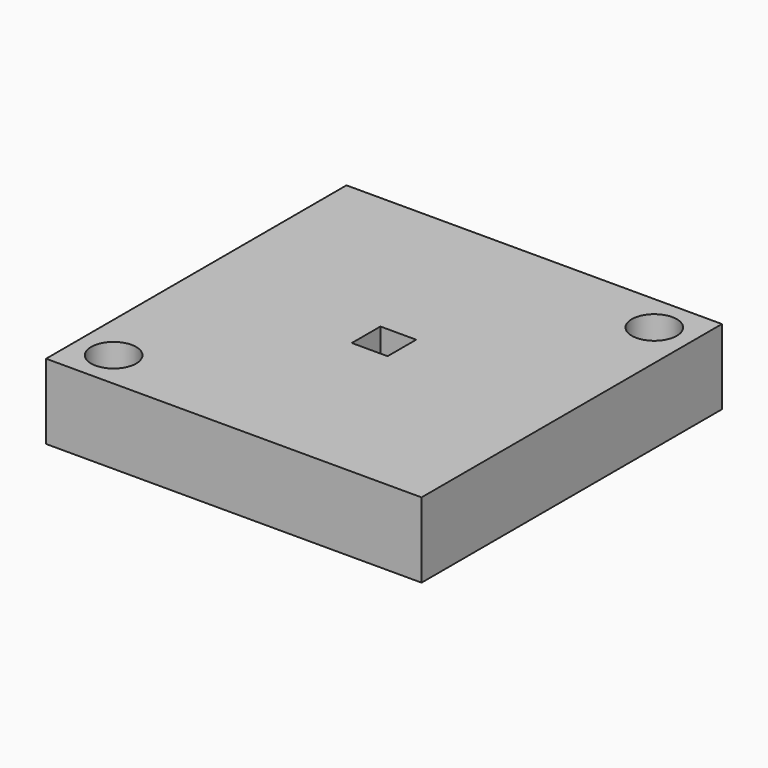
from build123d import *

# Parameters (mm, degrees)
F0_W     = 50
F0_H     = 50
F0_R     = 3
F0_W_2   = 4.7625
F0_H_2   = 4.7625
F1_DEPTH = 10


with BuildPart() as f1:
    # F0 (on Top) → F1 (new body)
    with BuildSketch(Plane.XY):
        with Locations((25, -25)):
            Rectangle(F0_W, F0_H)
        with Locations((5, -45)):
            Circle(F0_R, mode=Mode.SUBTRACT)
        with Locations((25, -25)):
            Rectangle(F0_W_2, F0_H_2, mode=Mode.SUBTRACT)
        with Locations((45, -5)):
            Circle(F0_R, mode=Mode.SUBTRACT)
    extrude(amount=F1_DEPTH)


solid = f1.part
